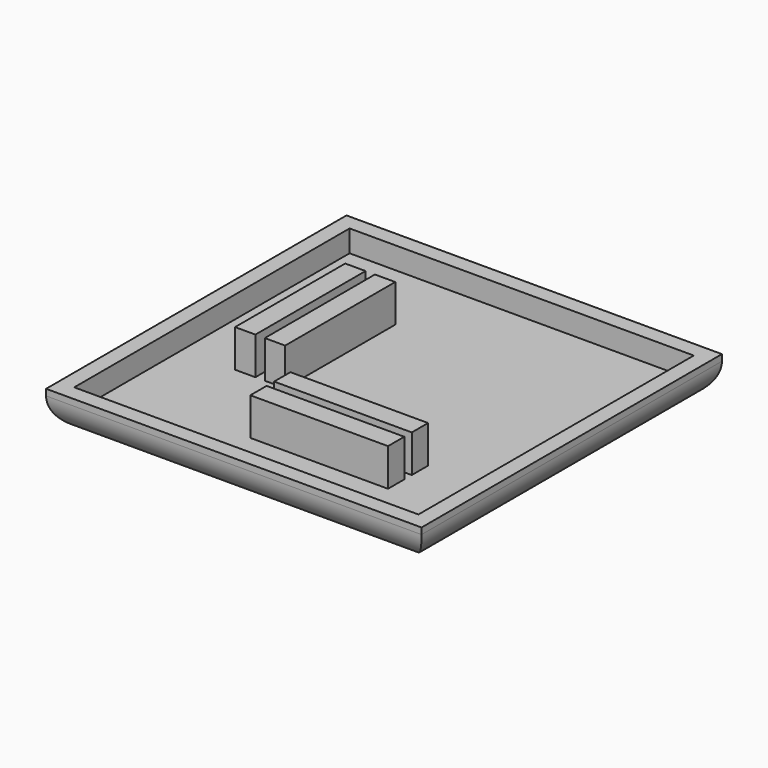
from build123d import *

# Parameters (mm, degrees)
F0_W     = 60
F0_H     = 60
F1_DEPTH = 6
F2_T     = -2.5
F3_W     = 8
F3_H     = 22
F3_W_2   = 22
F3_H_2   = 8
F4_DEPTH = 6
F5_W     = 1.5
F5_H     = 22
F6_W     = 22
F6_H     = 1.5
F7_DEPTH = 6
F8_R     = 5


with BuildPart() as f1:
    # F0 (on Top) → F1 (new body)
    with BuildSketch(Plane.XY):
        with Locations((30, -30)):
            Rectangle(F0_W, F0_H)
    extrude(amount=F1_DEPTH)

    # F2
    f2_openings = [f1.faces().sort_by_distance(p)[0] for p in [
        (30, -30, 6),
    ]]
    offset(amount=F2_T, openings=f2_openings)

    # F3 (on face) → F4 (join)
    with BuildSketch(Plane.XY.offset(2.5)):
        with Locations((15, -25)):
            Rectangle(F3_W, F3_H)
        with Locations((35, -45.2)):
            Rectangle(F3_W_2, F3_H_2)
    extrude(amount=F4_DEPTH)

    # F5 (on face) + F6 (on face) → F7 (cut)
    with BuildSketch(Plane.XY.offset(8.5)):
        with Locations((15, -25)):
            Rectangle(F5_W, F5_H)
    with BuildSketch(Plane.XY.offset(8.5)):
        with Locations((35, -45.2)):
            Rectangle(F6_W, F6_H)
    extrude(amount=-F7_DEPTH, mode=Mode.SUBTRACT)

    # F8
    f8_edges = [f1.edges().sort_by_distance(p)[0] for p in [
        (30, -60, 0),
        (60, -30, 0),
        (0, -30, 0),
        (30, 0, 0),
    ]]
    fillet(f8_edges, radius=F8_R)


solid = f1.part
